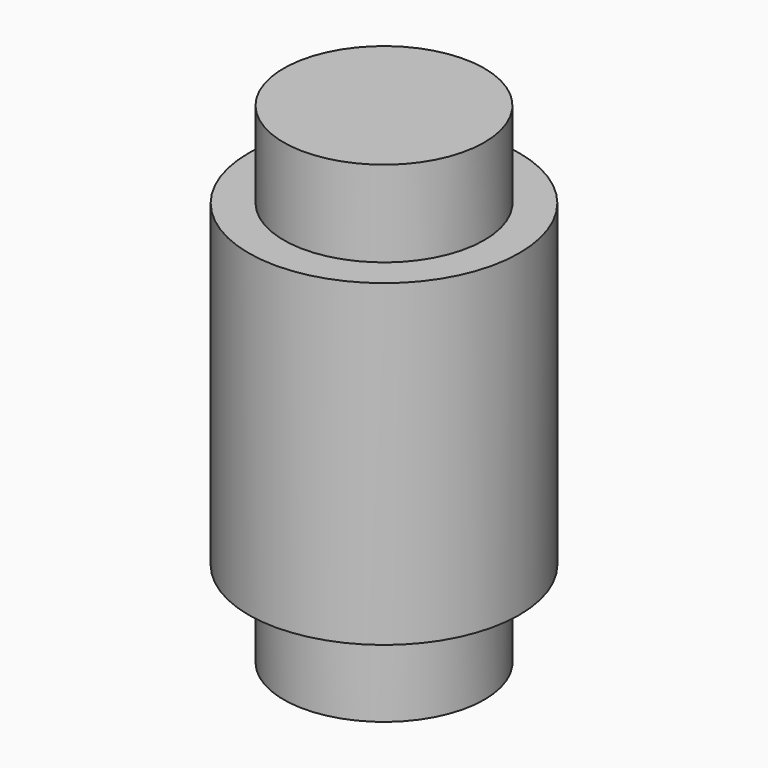
from build123d import *

# Parameters (mm, degrees)
F0_R     = 5.3975
F1_DEPTH = 6.35
F2_R     = 4.0005
F3_DEPTH = 3.429
F4_R     = 4.0005
F5_DEPTH = 3.429


with BuildPart() as f1:
    # F0 (on Top) → F1 (new body, symmetric)
    with BuildSketch(Plane.XY):
        Circle(F0_R)
    extrude(amount=F1_DEPTH, both=True)

    # F2 (on face) → F3 (join)
    with BuildSketch(Plane(origin=(0, 0, -6.35), x_dir=(1, 0, 0), z_dir=(0, 0, -1))):
        Circle(F2_R)
    extrude(amount=F3_DEPTH)

    # F4 (on face) → F5 (join)
    with BuildSketch(Plane.XY.offset(6.35)):
        Circle(F4_R)
    extrude(amount=F5_DEPTH)


solid = f1.part
